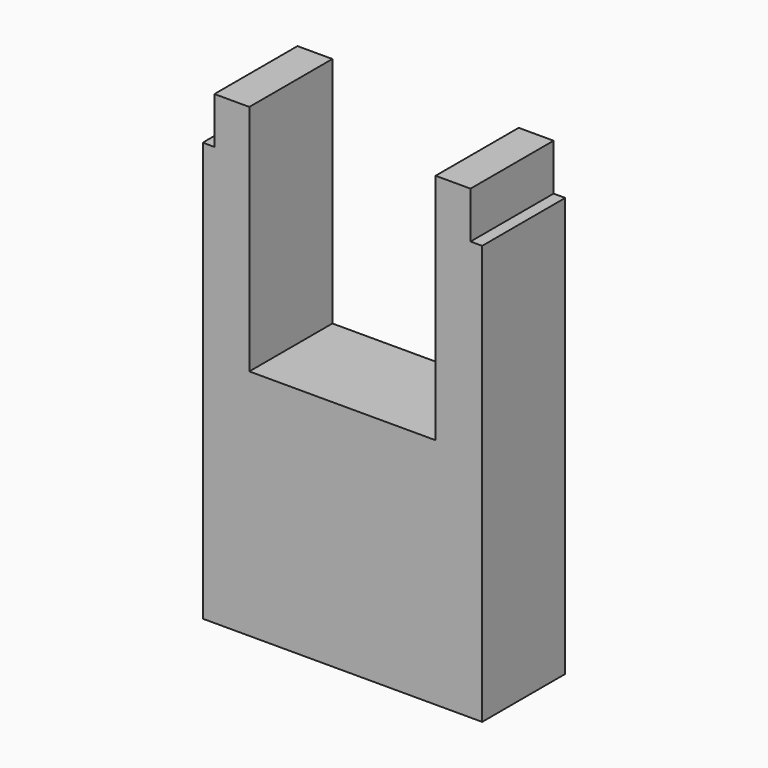
from build123d import *

# Parameters (mm, degrees)
F0_W     = 1.905
F0_H     = 2.54
F1_DEPTH = 5.6642


with BuildPart() as f1:
    # F0 (on Front) → F1 (new body)
    with BuildSketch(Plane.XZ):
        Polygon((-7.62, 16.51), (-7.62, 6.35), (-5.08, 6.35), (-5.08, 16.51), (-6.985, 16.51), align=None)
        Polygon((-5.08, 6.35), (-7.62, 6.35), (-7.62, -6.35), (7.62, -6.35), (7.62, 6.35), (5.08, 6.35), align=None)
        Polygon((5.08, 16.51), (5.08, 6.35), (7.62, 6.35), (7.62, 16.51), (6.985, 16.51), align=None)
        with Locations((-6.0325, 17.78)):
            Rectangle(F0_W, F0_H)
        with Locations((6.0325, 17.78)):
            Rectangle(F0_W, F0_H)
    extrude(amount=F1_DEPTH)


solid = f1.part
